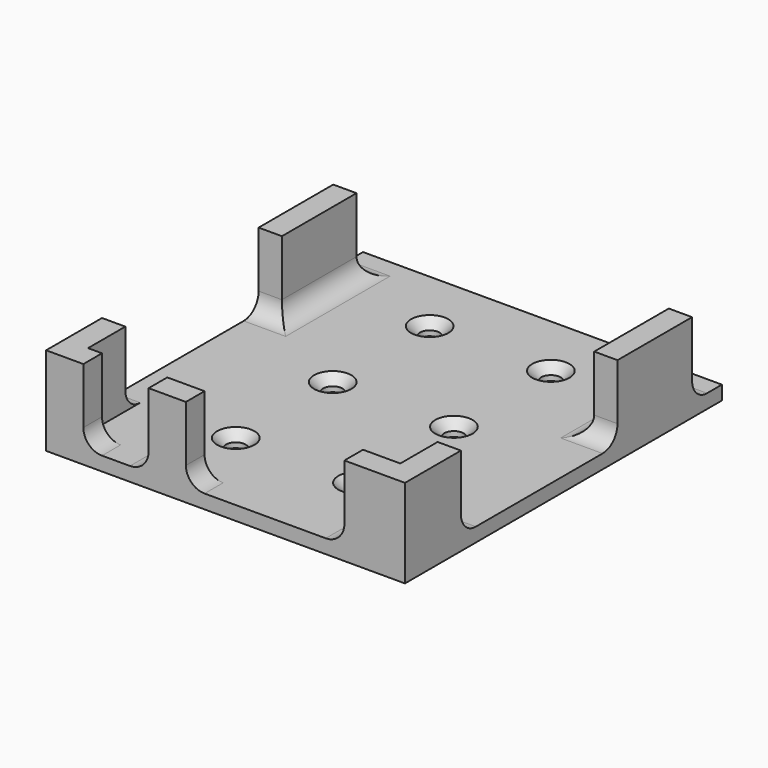
from build123d import *

# Parameters (mm, degrees)
F0_W           = 8
F0_H           = 5
F0_W_2         = 3
F0_W_3         = 5
F0_H_2         = 10
F0_H_3         = 20
F1_DEPTH       = 3
F2_DEPTH       = 19
F4_D           = 4.2
F4_CSINK_D     = 8
F4_CSINK_ANGLE = 90
F5_R           = 4


with BuildPart() as f1:
    # F0 (on Top) → F1 (new body)
    with BuildSketch(Plane.XY):
        Polygon((57.569327, 2.988489), (-19.430673, 2.988489), (-19.430673, -5.011511), (-14.430673, -5.011511), (-14.430673, -25.011511), (-19.430673, -25.011511), (-19.430673, -67.011511), (-14.430673, -67.011511), (-14.430673, -77.011511), (-11.430673, -77.011511), (-11.430673, -82.011511), (2.569327, -82.011511), (2.569327, -77.011511), (10.569327, -77.011511), (10.569327, -82.011511), (44.569327, -82.011511), (44.569327, -77.011511), (52.569327, -77.011511), (52.569327, -67.011511), (57.569327, -67.011511), (57.569327, -25.011511), (52.569327, -25.011511), (52.569327, -5.011511), (57.569327, -5.011511), align=None)
        with Locations((6.569327, -79.511511)):
            Rectangle(F0_W, F0_H)
        Polygon((-14.430673, -67.011511), (-19.430673, -67.011511), (-19.430673, -82.011511), (-14.430673, -82.011511), (-14.430673, -77.011511), align=None)
        with Locations((-12.930673, -79.511511)):
            Rectangle(F0_W_2, F0_H)
        Polygon((57.569327, -82.011511), (57.569327, -77.011511), (52.569327, -77.011511), (44.569327, -77.011511), (44.569327, -82.011511), align=None)
        with Locations((55.069327, -72.011511)):
            Rectangle(F0_W_3, F0_H_2)
        with Locations((55.069327, -15.011511)):
            Rectangle(F0_W_3, F0_H_3)
        with Locations((-16.930673, -15.011511)):
            Rectangle(F0_W_3, F0_H_3)
    extrude(amount=F1_DEPTH)

    # F0 (on Top) → F2 (join)
    with BuildSketch(Plane.XY):
        with Locations((-16.930673, -15.011511)):
            Rectangle(F0_W_3, F0_H_3)
        with Locations((55.069327, -15.011511)):
            Rectangle(F0_W_3, F0_H_3)
        with Locations((55.069327, -72.011511)):
            Rectangle(F0_W_3, F0_H_2)
        Polygon((57.569327, -82.011511), (57.569327, -77.011511), (52.569327, -77.011511), (44.569327, -77.011511), (44.569327, -82.011511), align=None)
        with Locations((6.569327, -79.511511)):
            Rectangle(F0_W, F0_H)
        Polygon((-14.430673, -67.011511), (-19.430673, -67.011511), (-19.430673, -82.011511), (-14.430673, -82.011511), (-14.430673, -77.011511), align=None)
        with Locations((-12.930673, -79.511511)):
            Rectangle(F0_W_2, F0_H)
    extrude(amount=F2_DEPTH)

    # F4 (through all)
    with Locations(Plane.XY.offset(3)):
        with Locations((6.069327, -11.011511), (32.069327, -11.011511), (6.069327, -63.011511), (32.069327, -63.011511), (32.069327, -37.011511), (6.069327, -37.011511)):
            CounterSinkHole(F4_D / 2, F4_CSINK_D / 2, counter_sink_angle=F4_CSINK_ANGLE)

    # F5
    f5_edges = [f1.edges().sort_by_distance(p)[0] for p in [
        (-16.930673, -25.011511, 3),
        (-16.930673, -67.011511, 3),
        (-11.430673, -79.511511, 3),
        (10.569327, -79.511511, 3),
        (2.569327, -79.511511, 3),
        (44.569327, -79.511511, 3),
        (55.069327, -25.011511, 3),
        (55.069327, -67.011511, 3),
        (55.069327, -5.011511, 3),
        (-16.930673, -5.011511, 3),
        (-14.430673, -15.011511, 3),
        (52.569327, -15.011511, 3),
    ]]
    fillet(f5_edges, radius=F5_R)


solid = f1.part
